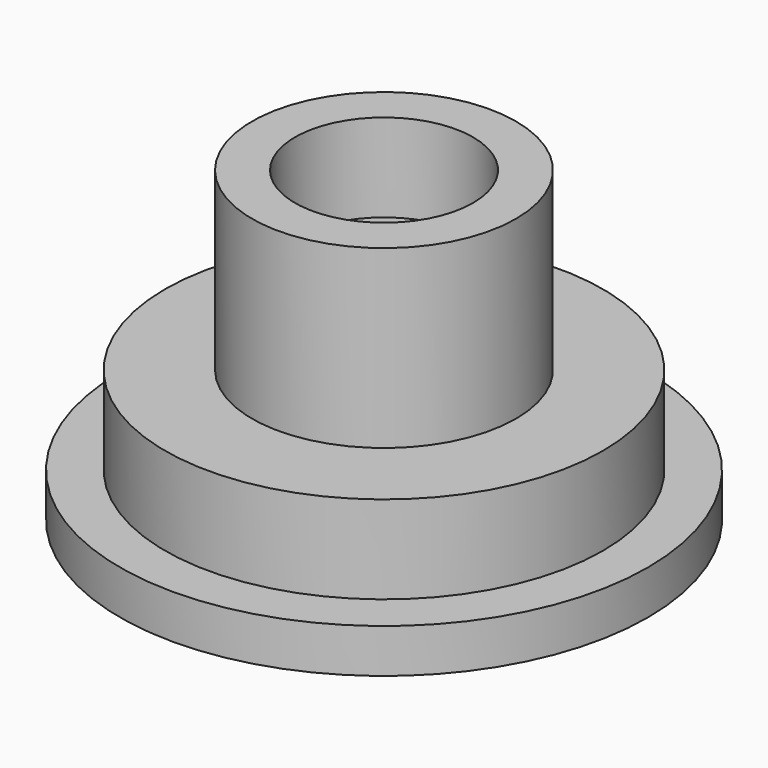
from build123d import *

# Parameters (mm, degrees)
F0_R      = 9.525
F1_DEPTH  = 1.5875
F2_R      = 7.8994
F3_DEPTH  = 3.175
F4_R      = 4.953
F5_DEPTH  = 3.175
F6_R      = 1.7272
F7_DEPTH  = 1.5885
F8_R      = 4.7625
F8_R_2    = 1.7272
F9_DEPTH  = 6.35
F10_R     = 3.2131
F11_DEPTH = 3.175
F12_R     = 4.064
F13_DEPTH = 3.71856


with BuildPart() as f1:
    # F0 (on Top) → F1 (new body)
    with BuildSketch(Plane.XY):
        Circle(F0_R)
    extrude(amount=F1_DEPTH)

    # F2 (on face) → F3 (join)
    with BuildSketch(Plane.XY.offset(1.5875)):
        Circle(F2_R)
    extrude(amount=F3_DEPTH)

    # F4 (on face) → F5 (cut)
    with BuildSketch(Plane(origin=(0, 0, 0), x_dir=(1, 0, 0), z_dir=(0, 0, -1))):
        Circle(F4_R)
    extrude(amount=-F5_DEPTH, mode=Mode.SUBTRACT)

    # F6 (on face) → F7 (cut, through all)
    with BuildSketch(Plane(origin=(0, 0, 3.175), x_dir=(1, 0, 0), z_dir=(0, 0, -1))):
        Circle(F6_R)
    extrude(amount=-F7_DEPTH, mode=Mode.SUBTRACT)

    # F8 (on face) → F9 (join)
    with BuildSketch(Plane.XY.offset(4.7625)):
        Circle(F8_R)
        Circle(F8_R_2, mode=Mode.SUBTRACT)
    extrude(amount=F9_DEPTH)

    # F10 (on face) → F11 (cut)
    with BuildSketch(Plane.XY.offset(11.1125)):
        Circle(F10_R)
    extrude(amount=-F11_DEPTH, mode=Mode.SUBTRACT)

    # F12 (on face) → F13 (cut)
    with BuildSketch(Plane(origin=(0, 0, 3.175), x_dir=(1, 0, 0), z_dir=(0, 0, -1))):
        Circle(F12_R)
    extrude(amount=-F13_DEPTH, mode=Mode.SUBTRACT)


solid = f1.part
